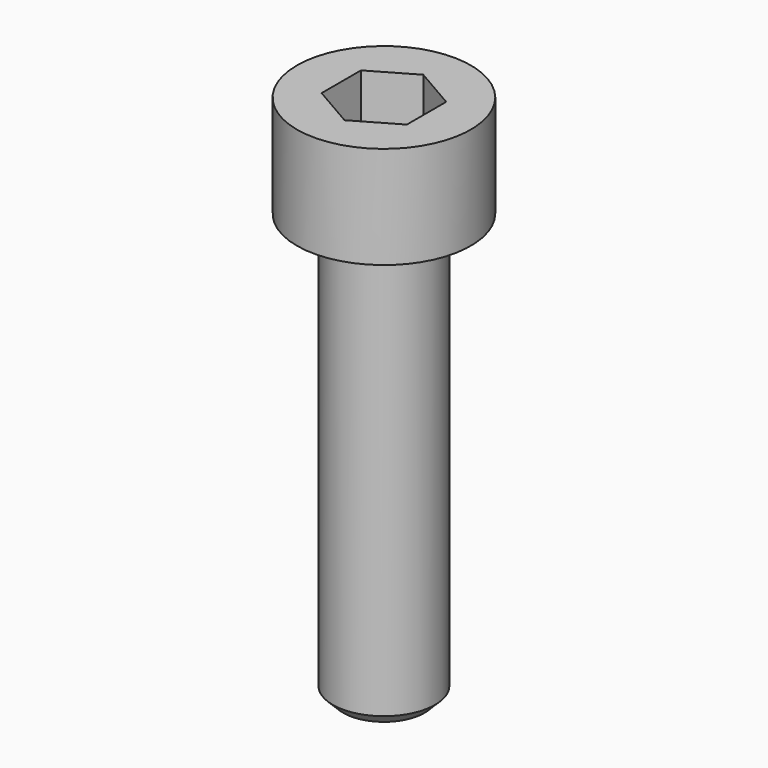
from build123d import *

# Parameters (mm, degrees)
F4_DEPTH      = 4
F4_DEPTH_BACK = 4


with BuildPart() as f1:
    # F0 (on Front) → F1 (revolve)
    with BuildSketch(Plane.XZ):
        Polygon((0, 6), (-5.1, 6), (-5.1, 0), (-3, 0), (-3, -24.385), (-2.385, -25), (0, -25), align=None)
    revolve(axis=Axis((0, 0, -9.5), (0, 0, -1)))

    # F3 (on offset) → F4 (cut, two sides)
    with BuildSketch(Plane.XY.offset(6)) as f4_sk:
        Polygon((2.5, -1.443376), (2.5, 1.443376), (0, 2.886751), (-2.5, 1.443376), (-2.5, -1.443376), (0, -2.886751), align=None)
    extrude(amount=-F4_DEPTH, mode=Mode.SUBTRACT)
    extrude(f4_sk.sketch, amount=-F4_DEPTH_BACK, mode=Mode.SUBTRACT)


solid = f1.part
